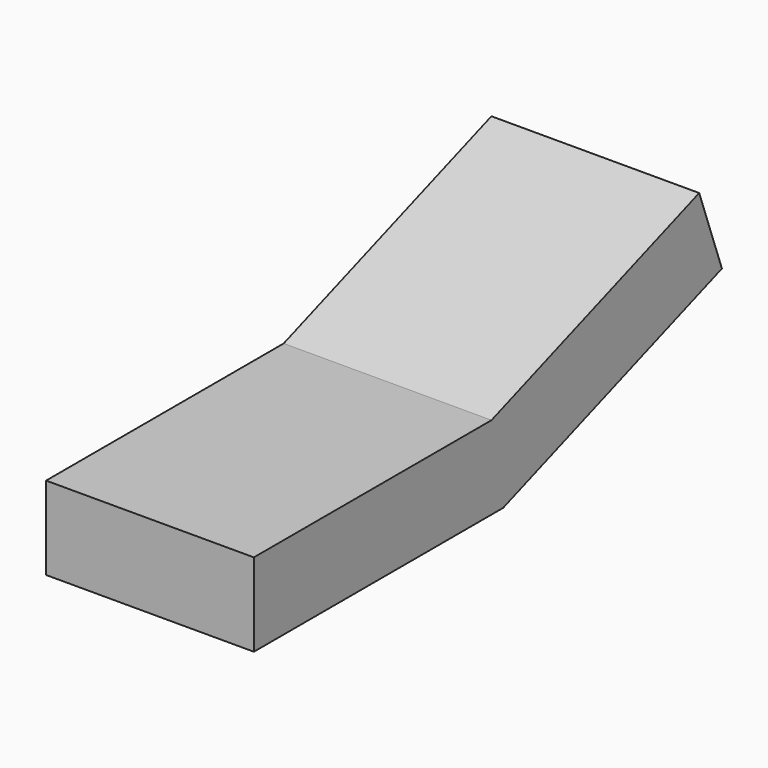
from build123d import *

# Parameters (mm, degrees)
BOX005_W               = 0.5
BOX005_H               = 0.75
BOX005_DEPTH           = 0.2
BOX006_W               = 0.5
BOX006_H               = 0.7
BOX006_DEPTH           = 0.2
BOX006_PLACEMENT_ANGLE = 20


with BuildPart() as cube005:
    # Box005 → Box005 (new body)
    with BuildSketch(Plane(origin=(0, -1.25, 0), x_dir=(1, 0, 0), z_dir=(0, 0, 1))):
        with Locations((0.25, 0.375)):
            Rectangle(BOX005_W, BOX005_H)
    extrude(amount=BOX005_DEPTH)


with BuildPart() as fusion002:
    # Box006 → Box006 (new body)
    with BuildSketch(Plane.XY):
        with Locations((0.25, 0.35)):
            Rectangle(BOX006_W, BOX006_H)
    extrude(amount=BOX006_DEPTH)


with BuildPart() as fusion002_1:
    # Box006 placement: moved
    add(fusion002.part.moved(Location((0, -0.5, 0))).rotate(Axis((0, -0.5, 0), (1, 0, 0)), BOX006_PLACEMENT_ANGLE))

    # Fusion002: union Cube005
    add(cube005.part)


with BuildPart() as fusion002_2:
    # Fusion002 placement: moved
    add(fusion002_1.part.moved(Location((5.85, 0, 0))))


solid = fusion002_2.part
